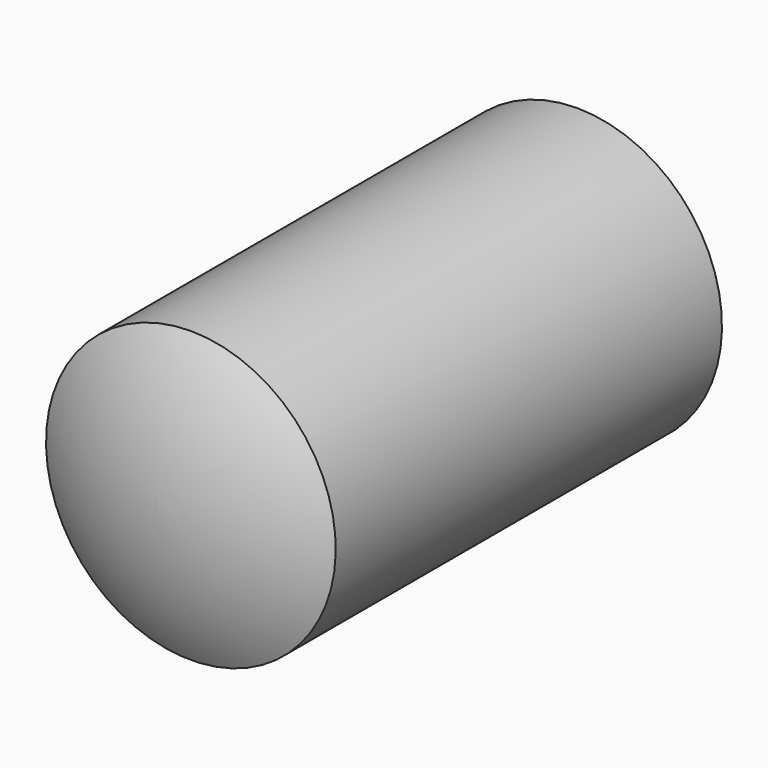
from build123d import *


with BuildPart() as part:
    # Sketch → Revolution (revolve)
    with BuildSketch(Plane.YZ):
        with BuildLine():
            ThreePointArc((21.607695, 0), (21.198805, 3.105829), (20, 6))
            Line((0, 6), (20, 6))
            ThreePointArc((0, 6), (-1.198805, 3.105829), (-1.607695, 0))
            Line((-1.607695, 0), (21.607695, 0))
        make_face()
    revolve(axis=Axis((0, 0, 0), (0, 1, 0)))


solid = part.part
